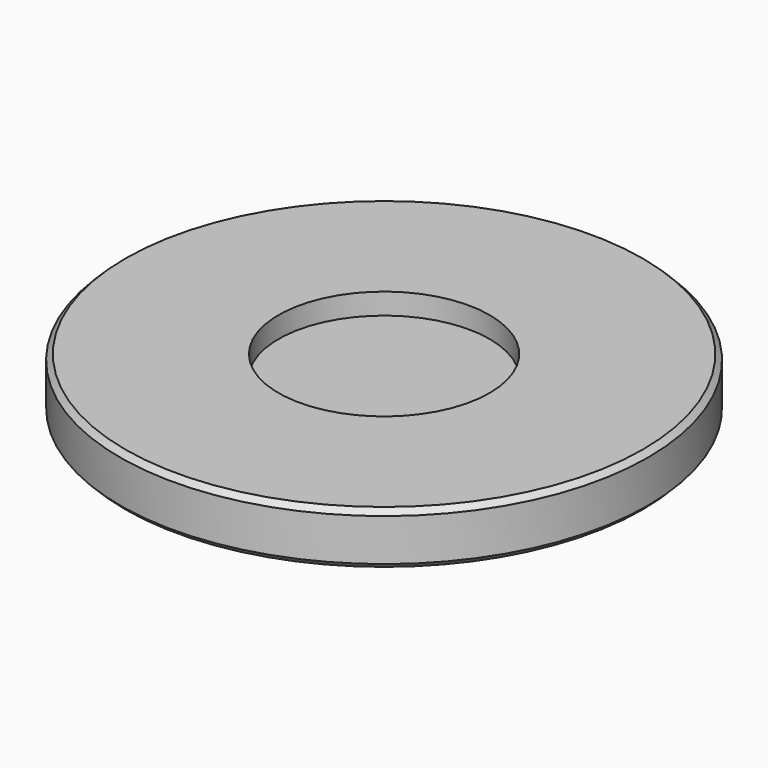
from build123d import *

# Parameters (mm, degrees)
F0_R     = 50
F1_DEPTH = 10
F2_R     = 20
F3_DEPTH = 4
F4_SIZE  = 1


with BuildPart() as f1:
    # F0 (on Top) → F1 (new body)
    with BuildSketch(Plane.XY):
        Circle(F0_R)
    extrude(amount=F1_DEPTH)

    # F2 (on face) → F3 (cut)
    with BuildSketch(Plane.XY.offset(10)):
        Circle(F2_R)
    extrude(amount=-F3_DEPTH, mode=Mode.SUBTRACT)

    # F4
    f4_edges = [f1.edges().sort_by_distance(p)[0] for p in [
        (-50, 0, 10),
        (-50, 0, 0),
    ]]
    chamfer(f4_edges, length=F4_SIZE)


solid = f1.part
